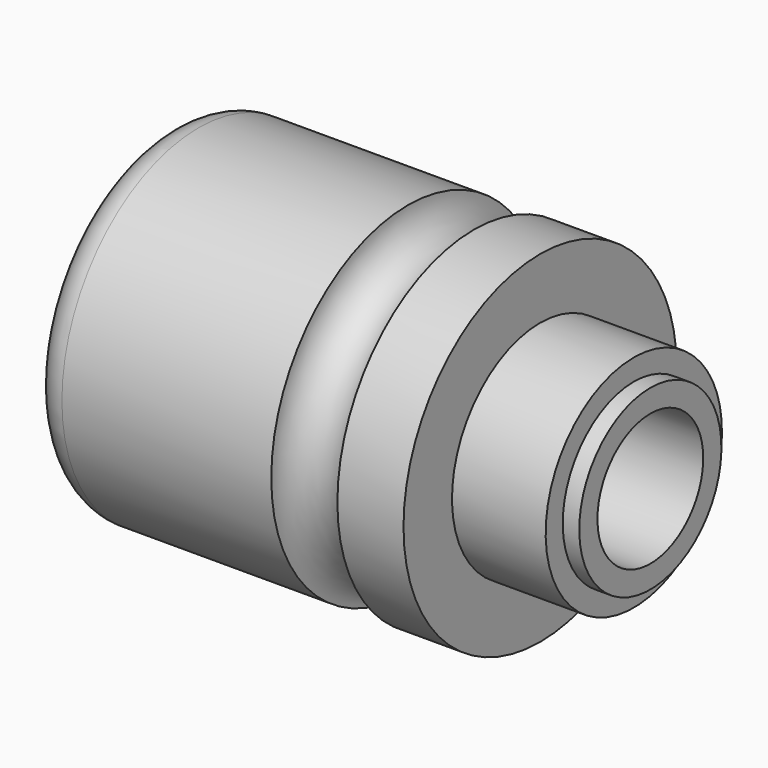
from build123d import *


with BuildPart() as f1:
    # F0 (on Front) → F1 (revolve)
    with BuildSketch(Plane.XZ):
        with BuildLine():
            ThreePointArc((6, 31), (1.757359, 29.242641), (0, 25))
            Line((0, 25), (1.5, 25))
            Line((1.5, 25), (1.5, 16))
            Line((1.5, 16), (12, 16))
            Line((12, 16), (12, 13))
            Line((12, 13), (15, 13))
            Line((15, 13), (15, 20.5))
            Line((15, 20.5), (22, 20.5))
            Line((22, 20.5), (22, 16))
            Line((22, 16), (30, 16))
            Line((30, 16), (30, 12))
            Line((30, 12), (88, 12))
            Line((88, 12), (88, 16.124999))
            Line((88, 16.124999), (85, 16.124999))
            Line((85, 16.124999), (85, 20))
            Line((85, 20), (68, 20))
            Line((68, 20), (68, 31))
            Line((68, 31), (56, 31))
            ThreePointArc((56, 31), (50, 25), (44, 31))
            Line((44, 31), (6, 31))
        make_face()
    revolve(axis=Axis((44, 0, 0), (-1, 0, 0)))


solid = f1.part
